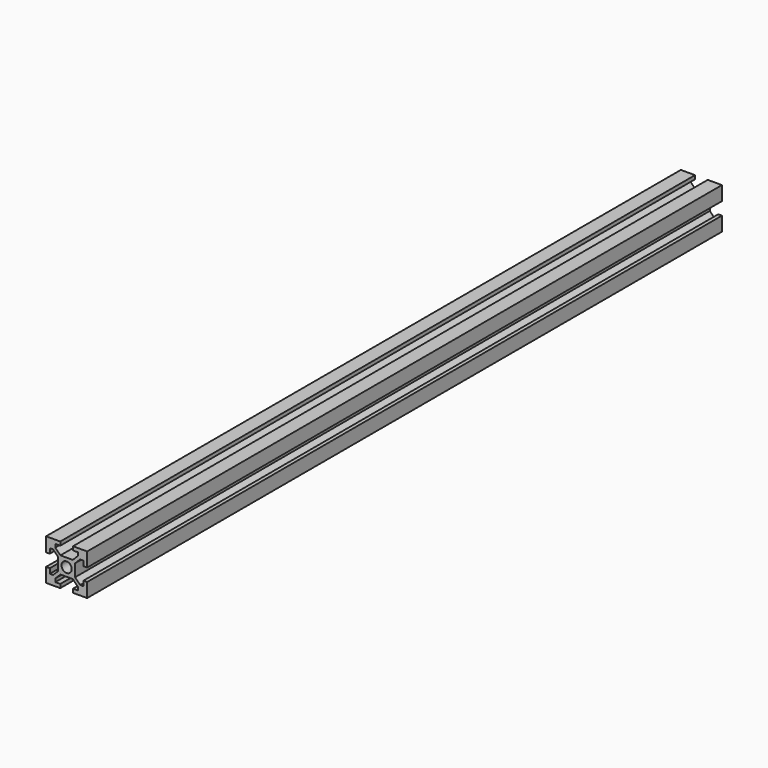
from build123d import *

# Parameters (mm, degrees)
F0_R     = 2.5
F1_DEPTH = 386.37


with BuildPart() as f1:
    # F0 (on Front) → F1 (new body)
    with BuildSketch(Plane.XZ):
        Polygon((-19.525503, 38.470874), (-26.425503, 38.470874), (-26.425503, 31.570874), (-24.625503, 31.570874), (-24.625503, 33.970874), (-23.025503, 33.970874), (-20.525503, 31.470874), (-20.525503, 25.470874), (-23.025503, 22.970874), (-24.625503, 22.970874), (-24.625503, 25.370874), (-26.425503, 25.370874), (-26.425503, 18.470874), (-19.525503, 18.470874), (-19.525503, 20.270874), (-21.925503, 20.270874), (-21.925503, 21.870874), (-19.425503, 24.370874), (-16.425503, 24.370874), (-13.425503, 24.370874), (-10.925503, 21.870874), (-10.925503, 20.270874), (-13.325503, 20.270874), (-13.325503, 18.470874), (-6.425503, 18.470874), (-6.425503, 25.370874), (-8.225503, 25.370874), (-8.225503, 22.970874), (-9.825503, 22.970874), (-12.325503, 25.470874), (-12.325503, 31.470874), (-9.825503, 33.970874), (-8.225503, 33.970874), (-8.225503, 31.570874), (-6.425503, 31.570874), (-6.425503, 38.470874), (-13.325503, 38.470874), (-13.325503, 36.670874), (-10.925503, 36.670874), (-10.925503, 35.070874), (-13.425503, 32.570874), (-16.425503, 32.570874), (-19.425503, 32.570874), (-21.925503, 35.070874), (-21.925503, 36.670874), (-19.525503, 36.670874), align=None)
        with Locations((-16.425503, 28.470874)):
            Circle(F0_R, mode=Mode.SUBTRACT)
    extrude(amount=F1_DEPTH)


solid = f1.part
